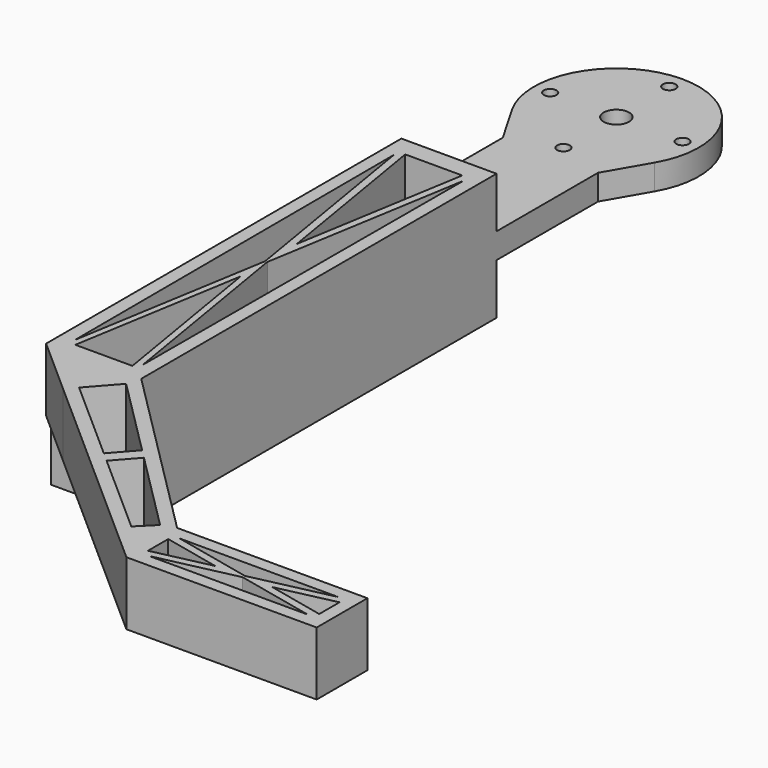
from build123d import *

# Parameters (mm, degrees)
F1_DEPTH = 25.4
F0_R     = 1.27
F0_R_2   = 2.54
F2_DEPTH = 15.24
F3_DEPTH = 10.16
F4_DEPTH = 12.7


with BuildPart() as f1:
    # F0 (on Top) → F1 (new body)
    with BuildSketch(Plane.XY):
        Polygon((-9.525, -91.6940000873), (9.525, -91.6940000873), (9.525, -4.0542031638), (-9.525, -4.0542031638), (-9.525, -6.5866475925), (-9.525, -7.8647015616), align=None)
        Polygon((5.7174111716, -90.4213413596), (-5.7059712708, -90.4213413596), (0.0057199504, -56.1548753595), align=None, mode=Mode.SUBTRACT)
        Polygon((-6.9876490161, -9.1256853193), (-0.2122831974, -49.7735133395), (-6.7739198121, -89.1391038895), align=None, mode=Mode.SUBTRACT)
        Polygon((0.210035916, -49.7735133395), (6.9854017347, -9.1256853193), (6.7716725307, -89.1391038895), align=None, mode=Mode.SUBTRACT)
        Polygon((-5.7059712708, -7.8647015616), (5.7174111716, -7.8647015616), (0.0057199504, -42.1311675618), align=None, mode=Mode.SUBTRACT)
    extrude(amount=-F1_DEPTH)

    # F0 (on Top) → F2 (join)
    with BuildSketch(Plane.XY):
        with BuildLine():
            Line((-9.525, -4.0542031638), (9.525, -4.0542031638))
            Line((9.525, -4.0542031638), (9.525, 21.3359999127))
            Line((9.525, 21.3359999127), (14.2927857936, 29.5818378705))
            ThreePointArc((14.2927857936, 29.5818378705), (0, 54.3559999127), (-14.2927857936, 29.5818378705))
            Line((-14.2927857936, 29.5818378705), (-9.525, 21.3359999127))
            Line((-9.525, 21.3359999127), (-9.525, 2.7279353235))
            Line((-9.525, 2.7279353235), (-9.525, -4.0542031638))
        make_face()
        with Locations((0, 24.5959999127)):
            Circle(F0_R, mode=Mode.SUBTRACT)
        with Locations((-13.25, 37.8459999127)):
            Circle(F0_R, mode=Mode.SUBTRACT)
        with Locations((0, 37.8459999127)):
            Circle(F0_R_2, mode=Mode.SUBTRACT)
        with Locations((0, 51.0959999127)):
            Circle(F0_R, mode=Mode.SUBTRACT)
        with Locations((13.25, 37.8459999127)):
            Circle(F0_R, mode=Mode.SUBTRACT)
    extrude(amount=-F2_DEPTH)

    # F0 (on Top) → F3 (cut)
    with BuildSketch(Plane.XY):
        with BuildLine():
            Line((-9.525, -4.0542031638), (9.525, -4.0542031638))
            Line((9.525, -4.0542031638), (9.525, 21.3359999127))
            Line((9.525, 21.3359999127), (14.2927857936, 29.5818378705))
            ThreePointArc((14.2927857936, 29.5818378705), (0, 54.3559999127), (-14.2927857936, 29.5818378705))
            Line((-14.2927857936, 29.5818378705), (-9.525, 21.3359999127))
            Line((-9.525, 21.3359999127), (-9.525, 2.7279353235))
            Line((-9.525, 2.7279353235), (-9.525, -4.0542031638))
        make_face()
        with Locations((0, 24.5959999127)):
            Circle(F0_R, mode=Mode.SUBTRACT)
        with Locations((-13.25, 37.8459999127)):
            Circle(F0_R, mode=Mode.SUBTRACT)
        with Locations((0, 37.8459999127)):
            Circle(F0_R_2, mode=Mode.SUBTRACT)
        with Locations((0, 51.0959999127)):
            Circle(F0_R, mode=Mode.SUBTRACT)
        with Locations((13.25, 37.8459999127)):
            Circle(F0_R, mode=Mode.SUBTRACT)
    extrude(amount=-F3_DEPTH, mode=Mode.SUBTRACT)

    # F0 (on Top) → F4 (join)
    with BuildSketch(Plane.XY):
        Polygon((44.5479988722, -127.9869989595), (9.525, -92.9640000873), (9.525, -91.6940000873), (-9.525, -91.6940000873), (-9.525, -92.9640000873), (1.1633583069, -102.417688386), (2.114645682, -103.2590874174), (45.4460244843, -141.5850245716), (46.7160244843, -141.5850245716), (81.0060244843, -141.5850245716), (83.5460244843, -141.5850245716), (83.5460244843, -139.0450245716), (83.5460244843, -131.4250245716), (83.5460244843, -128.8850245716), (45.4460244843, -128.8850245716), align=None)
        Polygon((26.5501800765, -113.5745529767), (42.7553124657, -129.7796853659), (39.5531307355, -132.9818670961), (22.6265746152, -118.0105889131), align=None, mode=Mode.SUBTRACT)
        Polygon((3.7974437448, -101.3565126673), (8.741913116, -95.7662860163), (24.7524432855, -111.7768161858), (20.7257820574, -116.3293671719), align=None, mode=Mode.SUBTRACT)
        Polygon((46.7160244843, -132.6950245716), (58.1460244843, -135.2350245716), (46.7160244843, -137.7750245716), align=None, mode=Mode.SUBTRACT)
        Polygon((79.7360244843, -139.0450245716), (47.9860244843, -139.0450245716), (63.8610244843, -135.5172467938), align=None, mode=Mode.SUBTRACT)
        Polygon((47.9860244843, -131.4250245716), (79.7360244843, -131.4250245716), (63.8610244843, -134.9528023494), align=None, mode=Mode.SUBTRACT)
        Polygon((81.0060244843, -132.6950245716), (81.0060244843, -137.7750245716), (69.5760244843, -135.2350245716), align=None, mode=Mode.SUBTRACT)
    extrude(amount=-F4_DEPTH)


solid = f1.part
